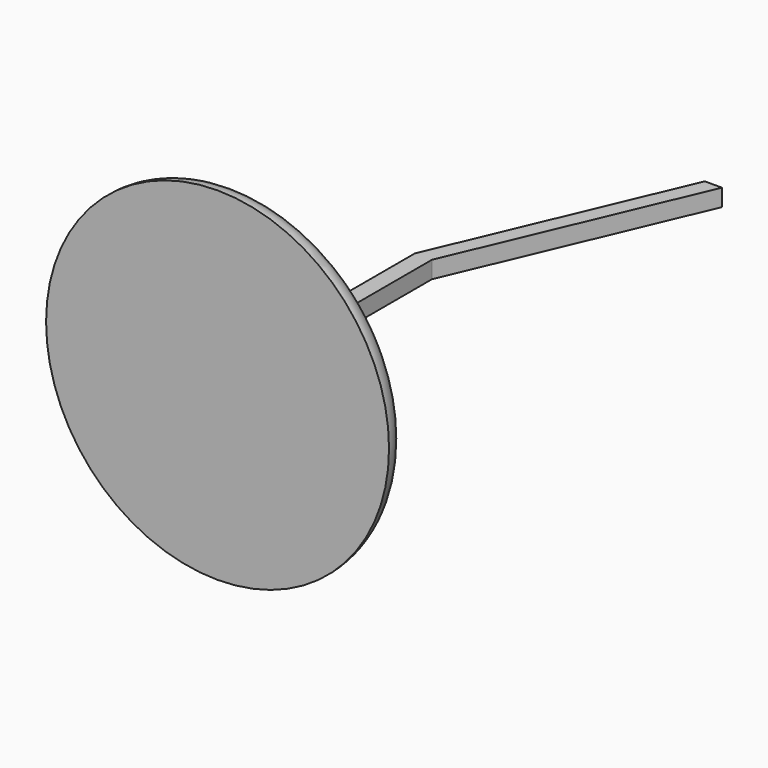
from build123d import *

# Parameters (mm, degrees)
SKETCH_R          = 20
PAD_DEPTH         = 3
PAD001_DEPTH      = 1
PAD001_DEPTH_BACK = 1
FILLET_R          = 2.99


with BuildPart() as part:
    # Sketch → Pad (new body)
    with BuildSketch(Plane.XZ):
        Circle(SKETCH_R)
    extrude(amount=-PAD_DEPTH)

    # Sketch001 → Pad001 (join, two sides)
    with BuildSketch(Plane.XY) as pad001_sk:
        Polygon((-1, 0), (1, 0), (1, 30), (12.736545, 57.608939), (10.736545, 57.608939), (-1, 30), align=None)
    extrude(amount=PAD001_DEPTH)
    extrude(pad001_sk.sketch, amount=-PAD001_DEPTH_BACK)

    # Fillet
    fillet_edges = [part.edges().sort_by_distance(p)[0] for p in [
        (-20, 3, 0),
    ]]
    fillet(fillet_edges, radius=FILLET_R)


solid = part.part
